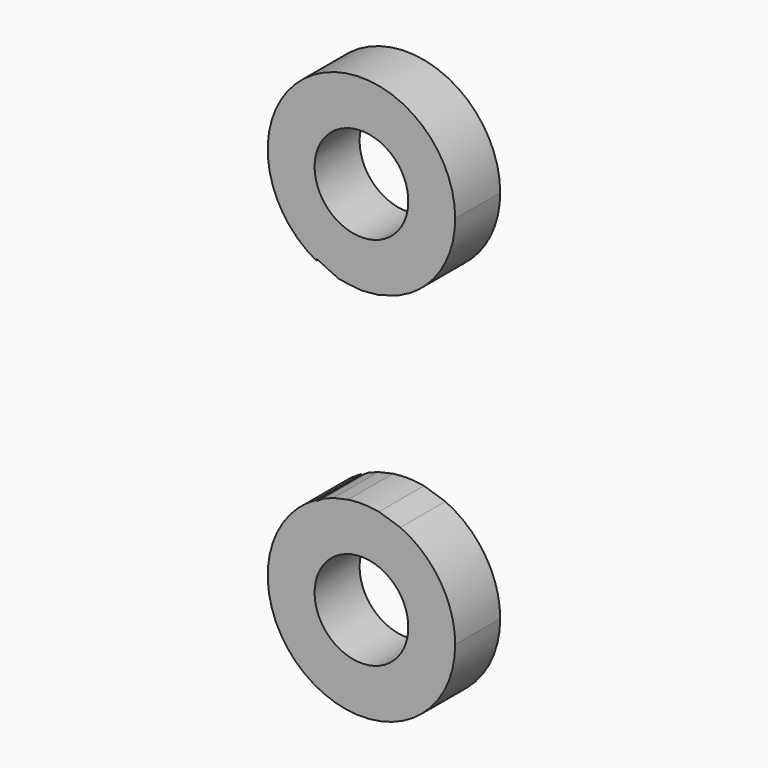
from build123d import *

# Parameters (mm, degrees)
F3_DEPTH = 30
F4_D     = 50
F4_2_D   = 50


with BuildPart() as f3:
    # F2 (on Front) → F3 (new body)
    with BuildSketch(Plane.XZ):
        with BuildLine():
            Line((-24.0908678128, -156.8137997318), (-24.0908678128, -156.1864166265))
            ThreePointArc((-24.0908678128, -156.1864166265), (-25.4505069631, -243.038026155), (50, -200))
            ThreePointArc((50, -200), (42.0590771407, -172.9623590142), (20.7586387969, -154.5128708831))
            Line((20.7586387969, -154.5128708831), (9.349064553, -150.8818262556))
            ThreePointArc((9.349064553, -150.8818262556), (1.1578270349, -150.013407432), (-7.0648341513, -150.5016351945))
            Line((-7.0648341513, -150.5016351945), (-14.9141062981, -152.2761125501))
            Line((-14.9141062981, -152.2761125501), (-20.3468686493, -154.3271969749))
            Line((-20.3468686493, -154.3271969749), (-24.0908678128, -156.8137997318))
        make_face()
    extrude(amount=F3_DEPTH)

    # F4 (through all)
    with Locations(Plane(origin=(0, 0, 0), x_dir=(1, 0, 0), z_dir=(0, 1, 0))):
        with Locations((0, 0), (0, 200)):
            Hole(F4_D / 2)


with BuildPart() as f3b:
    # F2 (on Front) → F3, piece 2 (new body)
    with BuildSketch(Plane.XZ):
        with BuildLine():
            Line((-24.0908678128, -42.8137997318), (-11.9733144536, -48.5452339679))
            Line((-11.9733144536, -48.5452339679), (0, -50))
            Line((0, -50), (9.349064553, -49.1181737444))
            Line((9.349064553, -49.1181737444), (19.6644283734, -45.9707543635))
            Line((19.6644283734, -45.9707543635), (25.8005227401, -42.8137997318))
            Line((25.8005227401, -42.8137997318), (25.8005227401, -42.8291142371))
            ThreePointArc((25.8005227401, -42.8291142371), (43.5317478227, -24.596482096), (50, 0))
            ThreePointArc((50, 0), (-25.4505069631, 43.038026155), (-24.0908678128, -43.8135833735))
            Line((-24.0908678128, -43.8135833735), (-24.0908678128, -42.8137997318))
        make_face()
    extrude(amount=F3_DEPTH)

    # F4#2 (through all)
    with Locations(Plane(origin=(0, 0, 0), x_dir=(1, 0, 0), z_dir=(0, 1, 0))):
        with Locations((0, 0), (0, 200)):
            Hole(F4_2_D / 2)


solid = Compound([f3.part, f3b.part])
